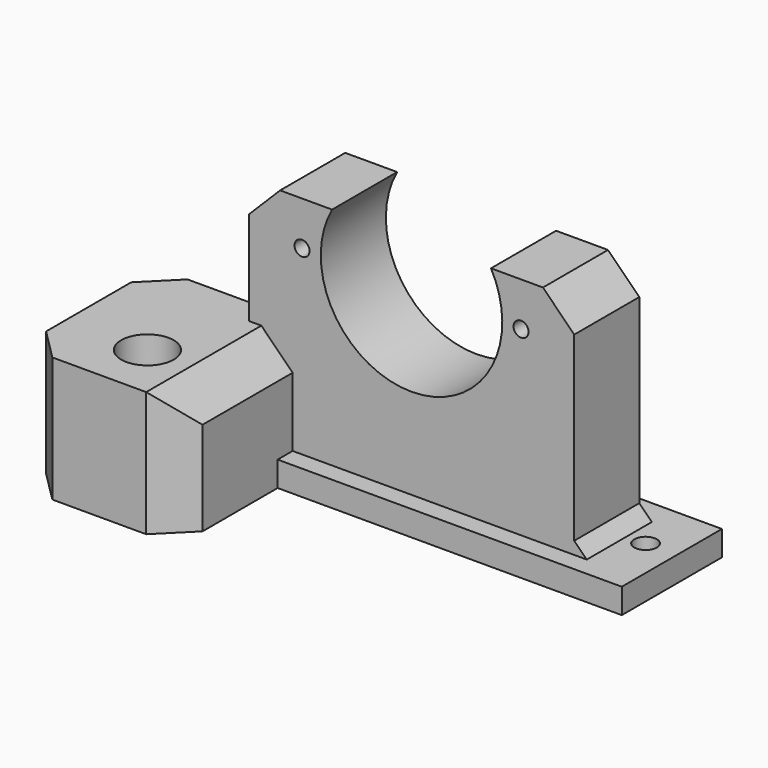
from build123d import *

# Parameters (mm, degrees)
CYLINDER050_R          = 14.5
CYLINDER050_DEPTH      = 22
CYLINDER050_ROLL_ANGLE = 90
CYLINDER047_R          = 1.8
CYLINDER047_DEPTH      = 10
CYLINDER048_R          = 1.2
CYLINDER048_DEPTH      = 10
CYLINDER048_ROLL_ANGLE = 90
CYLINDER049_R          = 1.2
CYLINDER049_DEPTH      = 10
CYLINDER049_ROLL_ANGLE = 90
CYLINDER046_R          = 1.8
CYLINDER046_DEPTH      = 10
BOX006_W               = 52
BOX006_H               = 13
BOX006_DEPTH           = 40
BOX012_W               = 80
BOX012_H               = 20
BOX012_DEPTH           = 4
CYLINDER035_R          = 4.2
CYLINDER035_DEPTH      = 200
BOX007_W               = 25
BOX007_H               = 27
BOX007_DEPTH           = 20
CHAMFER007_SIZE        = 5
CHAMFER008_SIZE        = 5
CHAMFER009_SIZE        = 2
CHAMFER010_SIZE        = 5
CHAMFER011_SIZE        = 5
CHAMFER012_SIZE        = 5
CHAMFER013_SIZE        = 5
CHAMFER014_SIZE        = 5


with BuildPart() as cilindro047:
    # Cylinder050 → Cylinder050 (new body)
    with BuildSketch(Plane.XY):
        Circle(CYLINDER050_R)
    extrude(amount=CYLINDER050_DEPTH)


with BuildPart() as cilindro047_1:
    # Cylinder050 roll: moved
    add(cilindro047.part.rotate(Axis((0, 0, 0), (1, 0, 0)), CYLINDER050_ROLL_ANGLE))


with BuildPart() as cilindro047_2:
    # Cylinder050 placement: moved
    add(cilindro047_1.part.moved(Location((88, -7, -1))))


with BuildPart() as cilindro044:
    # Cylinder047 → Cylinder047 (new body)
    with BuildSketch(Plane(origin=(52, -15, -35), x_dir=(1, 0, 0), z_dir=(0, 0, 1))):
        Circle(CYLINDER047_R)
    extrude(amount=CYLINDER047_DEPTH)


with BuildPart() as cilindro045:
    # Cylinder048 → Cylinder048 (new body)
    with BuildSketch(Plane.XY):
        Circle(CYLINDER048_R)
    extrude(amount=CYLINDER048_DEPTH)


with BuildPart() as cilindro045_1:
    # Cylinder048 roll: moved
    add(cilindro045.part.rotate(Axis((0, 0, 0), (1, 0, 0)), CYLINDER048_ROLL_ANGLE))


with BuildPart() as cilindro045_2:
    # Cylinder048 placement: moved
    add(cilindro045_1.part.moved(Location((70.5, -17, -1))))


with BuildPart() as cilindro046:
    # Cylinder049 → Cylinder049 (new body)
    with BuildSketch(Plane.XY):
        Circle(CYLINDER049_R)
    extrude(amount=CYLINDER049_DEPTH)


with BuildPart() as cilindro046_1:
    # Cylinder049 roll: moved
    add(cilindro046.part.rotate(Axis((0, 0, 0), (1, 0, 0)), CYLINDER049_ROLL_ANGLE))


with BuildPart() as cilindro046_2:
    # Cylinder049 placement: moved
    add(cilindro046_1.part.moved(Location((105.5, -17, -1))))


with BuildPart() as fusion010:
    # Cylinder046 → Cylinder046 (new body)
    with BuildSketch(Plane(origin=(119, -18, -35), x_dir=(1, 0, 0), z_dir=(0, 0, 1))):
        Circle(CYLINDER046_R)
    extrude(amount=CYLINDER046_DEPTH)

    # Fusion010: union Cilindro044, Cilindro045, Cilindro046
    add(cilindro044.part)
    add(cilindro045_2.part)
    add(cilindro046_2.part)


with BuildPart() as cubo006:
    # Box006 → Box006 (new body)
    with BuildSketch(Plane(origin=(62, -26, -34), x_dir=(1, 0, 0), z_dir=(0, 0, 1))):
        with Locations((26, 6.5)):
            Rectangle(BOX006_W, BOX006_H)
    extrude(amount=BOX006_DEPTH)


with BuildPart() as cubo012:
    # Box012 → Box012 (new body)
    with BuildSketch(Plane(origin=(44, -29, -34), x_dir=(1, 0, 0), z_dir=(0, 0, 1))):
        with Locations((40, 10)):
            Rectangle(BOX012_W, BOX012_H)
    extrude(amount=BOX012_DEPTH)


with BuildPart() as cilindro032:
    # Cylinder035 → Cylinder035 (new body)
    with BuildSketch(Plane(origin=(57, -40, -29), x_dir=(1, 0, 0), z_dir=(0, 0, 1))):
        Circle(CYLINDER035_R)
    extrude(amount=CYLINDER035_DEPTH)


with BuildPart() as base_motor:
    # Box007 → Box007 (new body)
    with BuildSketch(Plane(origin=(44, -49, -34), x_dir=(1, 0, 0), z_dir=(0, 0, 1))):
        with Locations((12.5, 13.5)):
            Rectangle(BOX007_W, BOX007_H)
    extrude(amount=BOX007_DEPTH)

    # Cut028: cut Cilindro032
    add(cilindro032.part, mode=Mode.SUBTRACT)

    # Fusion011: union Cubo006, Cubo012
    add(cubo006.part)
    add(cubo012.part)

    # Cut035: cut Fusion010
    add(fusion010.part, mode=Mode.SUBTRACT)

    # Cut036: cut Cilindro047
    add(cilindro047_2.part, mode=Mode.SUBTRACT)

    # Chamfer007
    chamfer007_edges = [base_motor.edges().sort_by_distance(p)[0] for p in [
        (69, -37.5, -14),
    ]]
    chamfer(chamfer007_edges, length=CHAMFER007_SIZE)

    # Chamfer008
    chamfer008_edges = [base_motor.edges().sort_by_distance(p)[0] for p in [
        (62, -17.5, -30),
    ]]
    chamfer(chamfer008_edges, length=CHAMFER008_SIZE)

    # Chamfer009
    chamfer009_edges = [base_motor.edges().sort_by_distance(p)[0] for p in [
        (114, -19.5, -30),
    ]]
    chamfer(chamfer009_edges, length=CHAMFER009_SIZE)

    # Chamfer010
    chamfer010_edges = [base_motor.edges().sort_by_distance(p)[0] for p in [
        (44, -22, -22),
    ]]
    chamfer(chamfer010_edges, length=CHAMFER010_SIZE)

    # Chamfer011
    chamfer011_edges = [base_motor.edges().sort_by_distance(p)[0] for p in [
        (44, -49, -24),
    ]]
    chamfer(chamfer011_edges, length=CHAMFER011_SIZE)

    # Chamfer012
    chamfer012_edges = [base_motor.edges().sort_by_distance(p)[0] for p in [
        (62, -19.5, 6),
    ]]
    chamfer(chamfer012_edges, length=CHAMFER012_SIZE)

    # Chamfer013
    chamfer013_edges = [base_motor.edges().sort_by_distance(p)[0] for p in [
        (114, -19.5, 6),
    ]]
    chamfer(chamfer013_edges, length=CHAMFER013_SIZE)

    # Chamfer014
    chamfer014_edges = [base_motor.edges().sort_by_distance(p)[0] for p in [
        (69, -49, -26.5),
    ]]
    chamfer(chamfer014_edges, length=CHAMFER014_SIZE)


solid = base_motor.part
